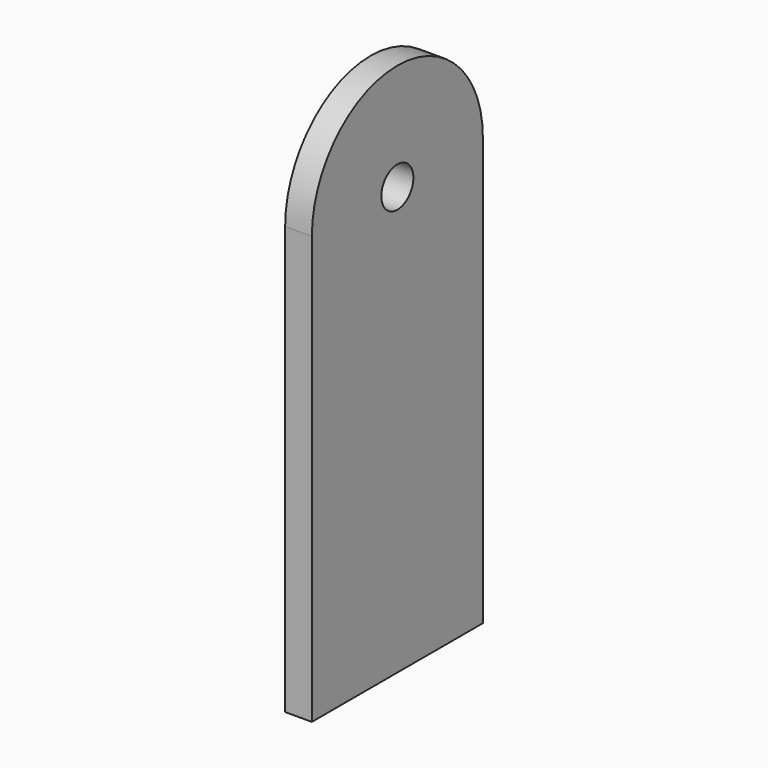
from build123d import *

# Parameters (mm, degrees)
F0_W     = 50.8
F0_H     = 101.6
F1_DEPTH = 6.35
F2_R     = 4.7625
F3_DEPTH = 6.35


with BuildPart() as f1:
    # F0 (on Right) → F1 (new body)
    with BuildSketch(Plane.YZ):
        with Locations((0, -50.8)):
            Rectangle(F0_W, F0_H)
        with BuildLine():
            ThreePointArc((25.4, 0), (0, 25.4), (-25.4, 0))
            Line((-25.4, 0), (25.4, 0))
        make_face()
    extrude(amount=F1_DEPTH)

    # F2 (on face) → F3 (cut, through all)
    with BuildSketch(Plane.YZ.offset(6.35)):
        Circle(F2_R)
    extrude(amount=-F3_DEPTH, mode=Mode.SUBTRACT)


solid = f1.part
